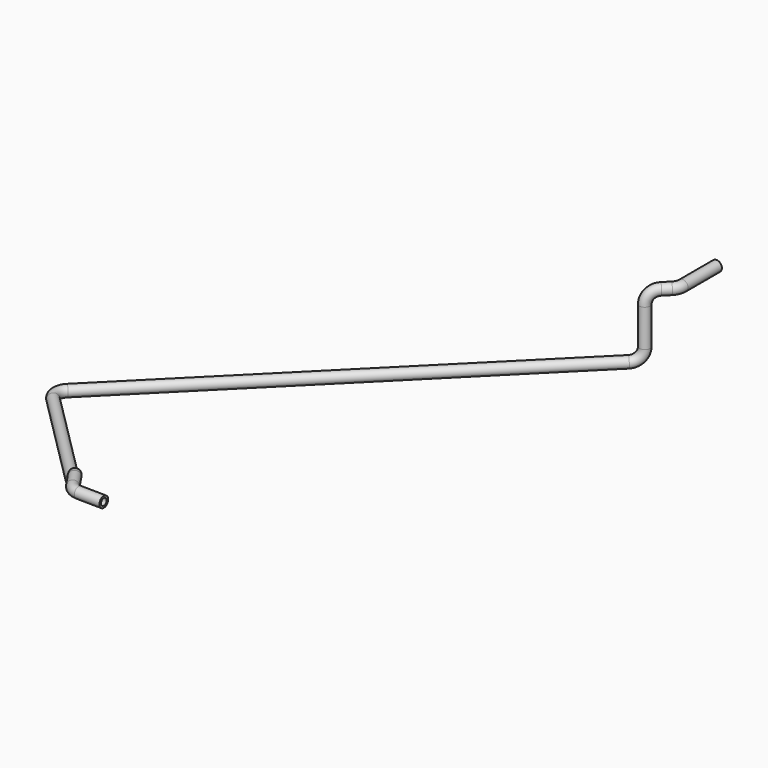
from build123d import *

# Parameters (mm, degrees)
F0_R      = 8.001
F0_R_2    = 5.08
F1_DEPTH  = 63.5
F2_R      = 8.001
F2_R_2    = 5.08
F3_ANGLE  = 45
F4_R      = 8.001
F4_R_2    = 5.08
F5_DEPTH  = 12.7
F6_R      = 8.001
F6_R_2    = 5.08
F7_ANGLE  = 90
F8_R      = 8.001
F8_R_2    = 5.08
F9_DEPTH  = 55.88
F10_R     = 8.001
F10_R_2   = 5.08
F11_ANGLE = 90
F12_R     = 8.001
F12_R_2   = 5.08
F13_DEPTH = 660.4
F14_R     = 8.001
F14_R_2   = 5.08
F15_ANGLE = 90
F16_R     = 8.001
F16_R_2   = 5.08
F17_DEPTH = 203.2
F18_R     = 8.001
F18_R_2   = 5.08
F19_ANGLE = 45
F20_R     = 8.001
F20_R_2   = 5.08
F21_DEPTH = 16.51
F22_R     = 8.001
F22_R_2   = 5.08
F23_ANGLE = 45
F24_R     = 8.001
F24_R_2   = 5.08
F25_DEPTH = 25.4
F26_R     = 8.001
F26_R_2   = 5.08
F27_ANGLE = 55
F28_R     = 8.001
F28_R_2   = 5.08
F29_DEPTH = 38.1


with BuildPart() as f1:
    # F0 (on Front) → F1 (new body)
    with BuildSketch(Plane.XZ):
        Circle(F0_R)
        Circle(F0_R_2, mode=Mode.SUBTRACT)
    extrude(amount=F1_DEPTH)

    # F2 (on face) → F3 (revolve)
    with BuildSketch(Plane.XZ.offset(63.5)):
        Circle(F2_R)
        Circle(F2_R_2, mode=Mode.SUBTRACT)
    revolve(axis=Axis((-19.05, -63.5, -1.4814843151), (0, 0, -1)), revolution_arc=F3_ANGLE)

    # F4 (on face) → F5 (join)
    with BuildSketch(Plane(origin=(-41.275, -41.275, 0), x_dir=(0.7071067812, -0.7071067812, 0), z_dir=(-0.7071067812, -0.7071067812, 0))):
        with Locations((50.4808964237, 0)):
            Circle(F4_R)
        with Locations((50.4808964237, 0)):
            Circle(F4_R_2, mode=Mode.SUBTRACT)
    extrude(amount=F5_DEPTH)

    # F6 (on face) → F7 (revolve)
    with BuildSketch(Plane(origin=(-50.2552561211, -50.2552561211, 0), x_dir=(0.7071067812, -0.7071067812, 0), z_dir=(-0.7071067812, -0.7071067812, 0))):
        with Locations((50.4808964237, 0)):
            Circle(F6_R)
        with Locations((50.4808964237, 0)):
            Circle(F6_R_2, mode=Mode.SUBTRACT)
    revolve(axis=Axis((-15.3094700098, -85.2010422323, -19.05), (0.7071067812, -0.7071067812, 0)), revolution_arc=F7_ANGLE)

    # F8 (on face) → F9 (join)
    with BuildSketch(Plane(origin=(0, 0, -19.05), x_dir=(1, 0, 0), z_dir=(0, 0, -1))):
        with Locations((-28.0302561211, 99.4210244843)):
            Circle(F8_R)
        with Locations((-28.0302561211, 99.4210244843)):
            Circle(F8_R_2, mode=Mode.SUBTRACT)
    extrude(amount=F9_DEPTH)

    # F10 (on face) → F11 (revolve)
    with BuildSketch(Plane(origin=(0, 0, -74.93), x_dir=(1, 0, 0), z_dir=(0, 0, -1))):
        with Locations((-28.0302561211, 99.4210244843)):
            Circle(F10_R)
        with Locations((-28.0302561211, 99.4210244843)):
            Circle(F10_R_2, mode=Mode.SUBTRACT)
    revolve(axis=Axis((-41.5006403027, -112.8914086659, -74.93), (-0.7071067812, 0.7071067812, 0)), revolution_arc=F11_ANGLE)

    # F12 (on face) → F13 (join)
    with BuildSketch(Plane(origin=(-77.1960244843, -77.1960244843, 0), x_dir=(0.7071067812, -0.7071067812, 0), z_dir=(-0.7071067812, -0.7071067812, 0))):
        with Locations((50.4808964237, -93.98)):
            Circle(F12_R)
        with Locations((50.4808964237, -93.98)):
            Circle(F12_R_2, mode=Mode.SUBTRACT)
    extrude(amount=F13_DEPTH)

    # F14 (on face) → F15 (revolve)
    with BuildSketch(Plane(origin=(-544.1693427799, -544.1693427799, 0), x_dir=(0.7071067812, -0.7071067812, 0), z_dir=(-0.7071067812, -0.7071067812, 0))):
        with Locations((50.4808964237, -93.98)):
            Circle(F14_R)
        with Locations((50.4808964237, -93.98)):
            Circle(F14_R_2, mode=Mode.SUBTRACT)
    revolve(axis=Axis((-495.0035744167, -593.3351111431, -93.5248397291), (0, 0, 1)), revolution_arc=F15_ANGLE)

    # F16 (on face) → F17 (join)
    with BuildSketch(Plane(origin=(49.1657683632, -49.1657683632, 0), x_dir=(0.7071067812, 0.7071067812, 0), z_dir=(0.7071067812, -0.7071067812, 0))):
        with Locations((-788.6216647869, -93.98)):
            Circle(F16_R)
        with Locations((-788.6216647869, -93.98)):
            Circle(F16_R_2, mode=Mode.SUBTRACT)
    extrude(amount=F17_DEPTH)

    # F18 (on face) → F19 (revolve)
    with BuildSketch(Plane(origin=(192.8498663003, -192.8498663003, 0), x_dir=(0.7071067812, 0.7071067812, 0), z_dir=(0.7071067812, -0.7071067812, 0))):
        with Locations((-788.6216647869, -93.98)):
            Circle(F18_R)
        with Locations((-788.6216647869, -93.98)):
            Circle(F18_R_2, mode=Mode.SUBTRACT)
    revolve(axis=Axis((-365.1811606846, -750.8808932852, -74.93), (-0.7071067812, -0.7071067812, 0)), revolution_arc=F19_ANGLE)

    # F20 (on face) → F21 (join)
    with BuildSketch(Plane(origin=(69.933177593, -69.933177593, 98.9004482119), x_dir=(0.8660254038, 0.2886751346, -0.4082482905), z_dir=(0.5, -0.5, 0.7071067812))):
        with Locations((-490.9764036899, -671.5873024571)):
            Circle(F20_R)
        with Locations((-490.9764036899, -671.5873024571)):
            Circle(F20_R_2, mode=Mode.SUBTRACT)
    extrude(amount=F21_DEPTH)

    # F22 (on face) → F23 (revolve)
    with BuildSketch(Plane(origin=(78.188177593, -78.188177593, 110.5747811693), x_dir=(0.8660254038, 0.2886751346, -0.4082482905), z_dir=(0.5, -0.5, 0.7071067812))):
        with Locations((-490.9764036899, -671.5873024571)):
            Circle(F22_R)
        with Locations((-490.9764036899, -671.5873024571)):
            Circle(F22_R_2, mode=Mode.SUBTRACT)
    revolve(axis=Axis((-340.0887156368, -780.1462070097, -90.0180739232), (0.8150989931, 0.5475637717, -0.1891759692)), revolution_arc=F23_ANGLE)

    # F24 (on face) → F25 (join)
    with BuildSketch(Plane(origin=(254.280638393, -375.6631851162, 8.2692414851), x_dir=(0.8281872666, 0.5603157385, -0.012333884), z_dir=(0.5604514711, -0.8279866925, 0.0182259593))):
        with Locations((-715.9283245048, -88.1233790908)):
            Circle(F24_R)
        with Locations((-715.9283245048, -88.1233790908)):
            Circle(F24_R_2, mode=Mode.SUBTRACT)
    extrude(amount=F25_DEPTH)

    # F26 (on face) → F27 (revolve)
    with BuildSketch(Plane(origin=(268.5161057595, -396.6940471052, 8.7321808502), x_dir=(0.8281872666, 0.5603157385, -0.012333884), z_dir=(0.5604514711, -0.8279866925, 0.0182259593))):
        with Locations((-715.9283245048, -88.1233790908)):
            Circle(F26_R)
        with Locations((-715.9283245048, -88.1233790908)):
            Circle(F26_R_2, mode=Mode.SUBTRACT)
    revolve(axis=Axis((-308.6296489473, -789.0871737219, -69.9522802413), (0, 0.0220070508, 0.9997578155)), revolution_arc=F27_ANGLE)

    # F28 (on face) → F29 (join)
    with BuildSketch(Plane(origin=(-296.0073555105, 4.7159585067, -0.1038094795), x_dir=(0.0159298728, 0.9998731115, 5.5866e-06), z_dir=(0.99987305, -0.0159298738, 0.0003506545))):
        with Locations((-812.9673590943, -70.2471117368)):
            Circle(F28_R)
        with Locations((-812.9673590943, -70.2471117368)):
            Circle(F28_R_2, mode=Mode.SUBTRACT)
    extrude(amount=F29_DEPTH)


solid = f1.part
